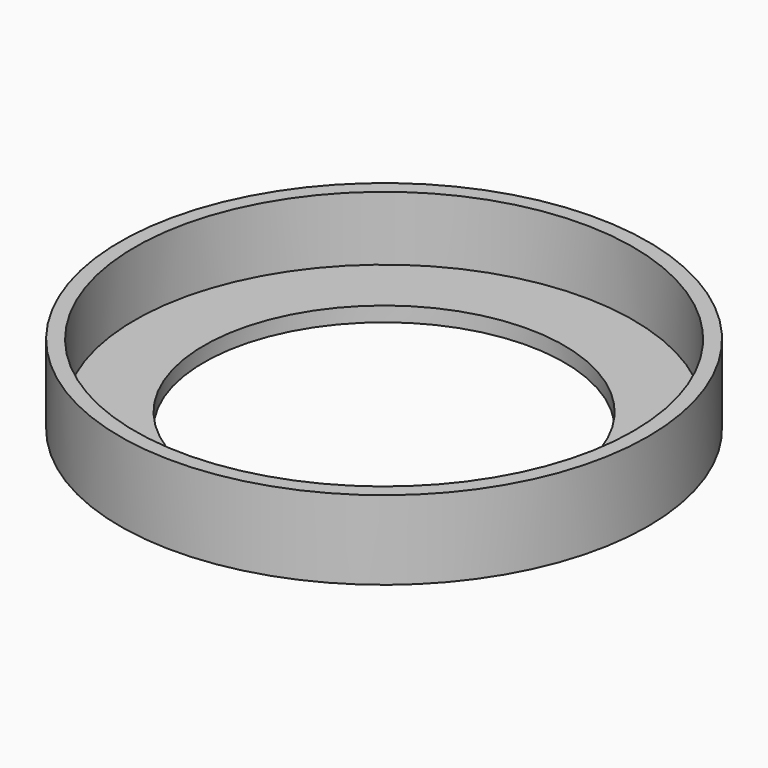
from build123d import *

# Parameters (mm, degrees)
F0_R     = 25.25
F0_R_2   = 18.25
F1_DEPTH = 1.5
F2_R     = 26.75
F2_R_2   = 25.25
F3_DEPTH = 8


with BuildPart() as f1:
    # F0 (on Top) → F1 (new body)
    with BuildSketch(Plane.XY):
        Circle(F0_R)
        Circle(F0_R_2, mode=Mode.SUBTRACT)
        Circle(F0_R)
        Circle(F0_R_2, mode=Mode.SUBTRACT)
    extrude(amount=F1_DEPTH)

    # F2 (on Top) → F3 (join)
    with BuildSketch(Plane.XY):
        Circle(F2_R)
        Circle(F2_R_2, mode=Mode.SUBTRACT)
    extrude(amount=F3_DEPTH)


solid = f1.part
